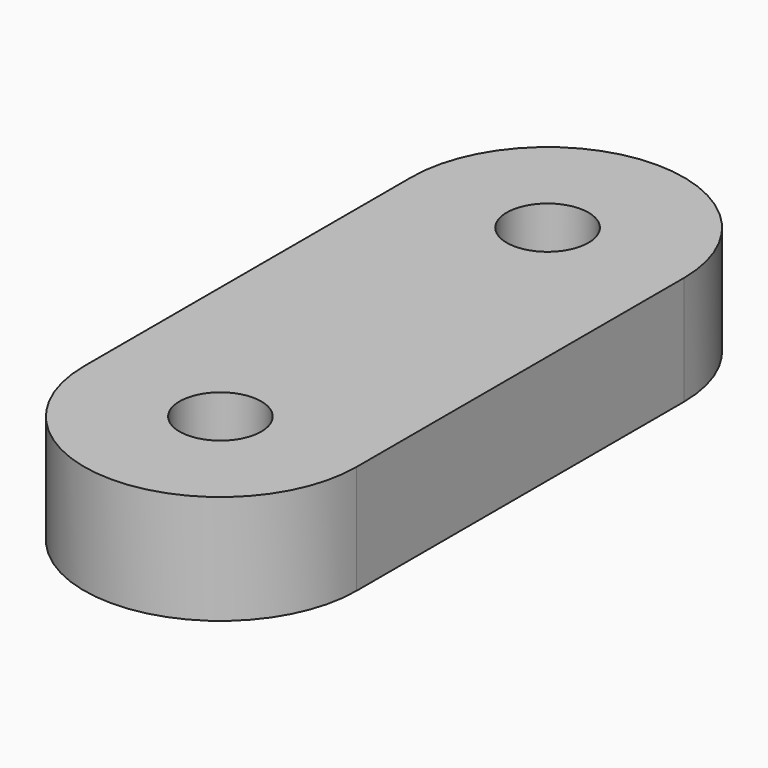
from build123d import *

# Parameters (mm, degrees)
F0_R     = 1.5
F1_DEPTH = 4


with BuildPart() as f1:
    # F0 (on Top) → F1 (new body)
    with BuildSketch(Plane.XY):
        with BuildLine():
            ThreePointArc((-5, 6.816642), (0, 1.816642), (5, 6.816642))
            ThreePointArc((5, 6.816642), (0, 11.816642), (-5, 6.816642))
        make_face()
        with Locations((0, 6.816642)):
            Circle(F0_R, mode=Mode.SUBTRACT)
        with BuildLine():
            Line((5, -8.183358), (5, 6.816642))
            ThreePointArc((5, 6.816642), (0, 1.816642), (-5, 6.816642))
            Line((-5, 6.816642), (-5, -8.183358))
            ThreePointArc((-5, -8.183358), (0, -3.183358), (5, -8.183358))
        make_face()
        with BuildLine():
            ThreePointArc((-5, -8.183358), (0, -13.183358), (5, -8.183358))
            ThreePointArc((5, -8.183358), (0, -3.183358), (-5, -8.183358))
        make_face()
        with Locations((0, -8.183358)):
            Circle(F0_R, mode=Mode.SUBTRACT)
    extrude(amount=F1_DEPTH)


solid = f1.part
